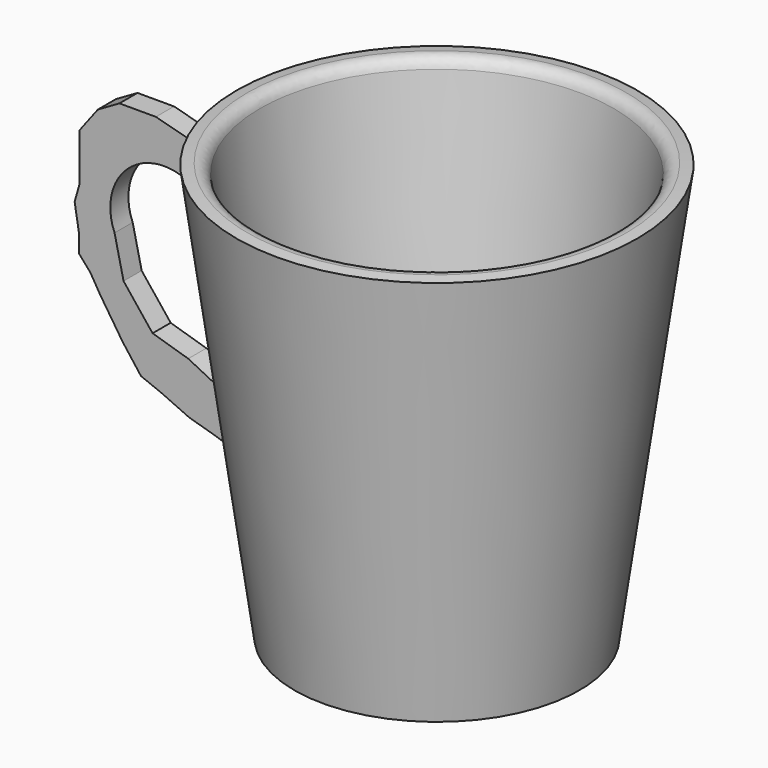
from build123d import *

# Parameters (mm, degrees)
F3_DEPTH = 5.08
F4_R     = 2.54


with BuildPart() as f1:
    # F0 (on Front) → F1 (revolve)
    with BuildSketch(Plane.XZ):
        Polygon((-32, 0), (0, 0), (0, 5), (-27.64709, 5), (-40.047639, 94.188564), (-45, 93.5), align=None)
        Polygon((-27.64709, 5), (0, 5), (-16.727764, 16.835798), align=None)
    revolve(axis=Axis((0, 0, 46.75), (0, 0, 1)))

    # F2 (on Front) → F3 (join)
    with BuildSketch(Plane.XZ):
        with BuildLine():
            ThreePointArc((-68.295348, 59.845981), (-66.09924, 72.713495), (-53.492135, 76.098273))
            ThreePointArc((-53.492135, 76.098273), (-51.366423, 75.191833), (-49.451803, 73.897802))
            Line((-49.451803, 73.897802), (-41.887928, 69.778316))
            Line((-41.887928, 69.778316), (-42.81877, 80.389924))
            Line((-42.81877, 80.389924), (-51.94103, 83.927125))
            Line((-51.94103, 83.927125), (-59.015434, 85.788816))
            Line((-59.015434, 85.788816), (-67.206852, 85.788816))
            Line((-67.206852, 85.788816), (-72.047234, 82.996286))
            Line((-72.047234, 82.996286), (-76.142944, 77.597402))
            Line((-76.142944, 77.597402), (-76.142944, 72.943188))
            Line((-76.142944, 72.943188), (-76.142944, 66.985793))
            Line((-76.142944, 66.985793), (-77.259958, 63.07625))
            Line((-77.259958, 63.07625), (-76.329112, 57.491191))
            Line((-76.329112, 57.491191), (-76.329112, 53.209316))
            Line((-76.329112, 53.209316), (-73.72275, 50.230619))
            Line((-73.72275, 50.230619), (-71.488731, 46.507247))
            Line((-71.488731, 46.507247), (-66.462182, 38.874336))
            Line((-66.462182, 38.874336), (-62.366471, 33.475447))
            Line((-62.366471, 33.475447), (-57.712257, 31.61376))
            Line((-57.712257, 31.61376), (-51.568694, 28.821234))
            Line((-51.568694, 28.821234), (-45.797467, 27.145715))
            Line((-45.797467, 27.145715), (-39.467737, 25.097862))
            Line((-39.467737, 25.097862), (-35.558198, 25.097862))
            Line((-35.558198, 25.097862), (-37.047546, 34.406289))
            Line((-37.047546, 34.406289), (-43.563444, 36.267977))
            Line((-43.563444, 36.267977), (-51.754862, 40.363684))
            Line((-51.754862, 40.363684), (-59.760112, 42.783875))
            Line((-59.760112, 42.783875), (-66.276014, 50.975293))
            Line((-66.276014, 50.975293), (-68.295348, 59.845981))
        make_face()
        with BuildLine():
            ThreePointArc((-49.451803, 73.897802), (-51.366423, 75.191833), (-53.492135, 76.098273))
            Line((-53.492135, 76.098273), (-49.451803, 73.897802))
        make_face()
    extrude(amount=F3_DEPTH)

    # F4
    f4_edges = [f1.edges().sort_by_distance(p)[0] for p in [
        (40.047639, 0, 94.188564),
    ]]
    fillet(f4_edges, radius=F4_R)


solid = f1.part
